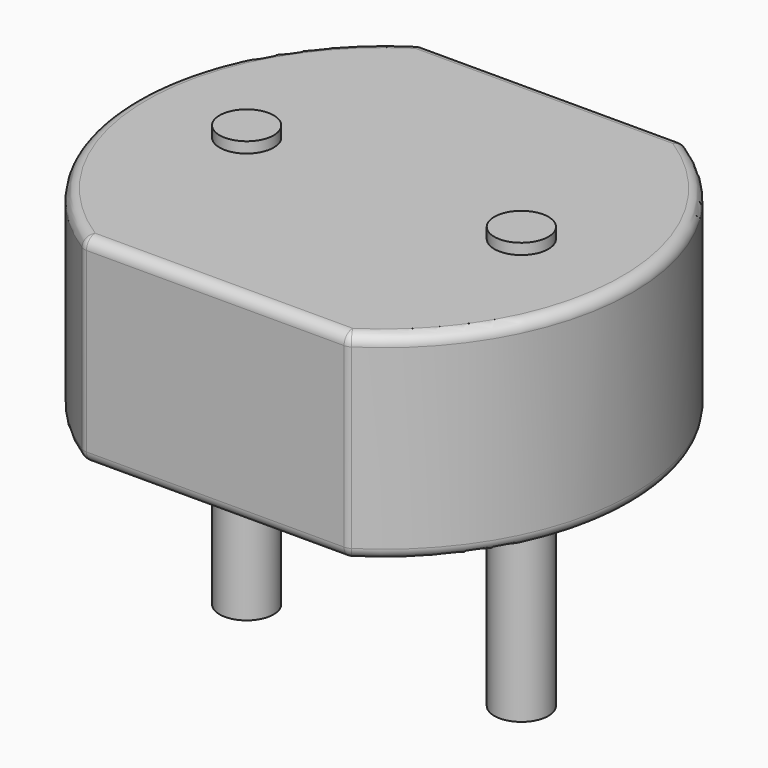
from build123d import *

# Parameters (mm, degrees)
F1_DEPTH      = 1.84
F2_R          = 0.1
F3_R          = 0.25
F4_DEPTH      = 0.1
F4_DEPTH_BACK = 3.8


with BuildPart() as f1:
    # F0 (on Top) → F1 (new body)
    with BuildSketch(Plane.XY):
        with BuildLine():
            Line((1.219631, 1.95), (-1.219631, 1.95))
            ThreePointArc((-1.219631, 1.95), (-2.3, 0), (-1.219631, -1.95))
            Line((-1.219631, -1.95), (1.219631, -1.95))
            ThreePointArc((1.219631, -1.95), (2.3, 0), (1.219631, 1.95))
        make_face()
        with BuildLine():
            Line((1.219631, 1.95), (-1.219631, 1.95))
            ThreePointArc((-1.219631, 1.95), (-2.3, 0), (-1.219631, -1.95))
            Line((-1.219631, -1.95), (1.219631, -1.95))
            ThreePointArc((1.219631, -1.95), (2.3, 0), (1.219631, 1.95))
        make_face()
    extrude(amount=F1_DEPTH)

    # F2
    f2_edges = [f1.edges().sort_by_distance(p)[0] for p in [
        (0, 1.95, 1.84),
        (-2.3, 0, 1.84),
        (0, -1.95, 1.84),
        (2.3, 0, 1.84),
        (-1.219631, 1.95, 0.92),
        (1.219631, 1.95, 0.92),
        (0, 1.95, 0),
        (-2.3, 0, 0),
        (-1.219631, -1.95, 0.92),
        (1.219631, -1.95, 0.92),
        (2.3, 0, 0),
        (0, -1.95, 0),
    ]]
    fillet(f2_edges, radius=F2_R)

    # F3 (on face) → F4 (join, two sides)
    with BuildSketch(Plane.XY.offset(1.84)) as f4_sk:
        with Locations((-1.27, 0)):
            Circle(F3_R)
        with Locations((1.27, 0)):
            Circle(F3_R)
    extrude(amount=F4_DEPTH)
    extrude(f4_sk.sketch, amount=-F4_DEPTH_BACK)


solid = f1.part
